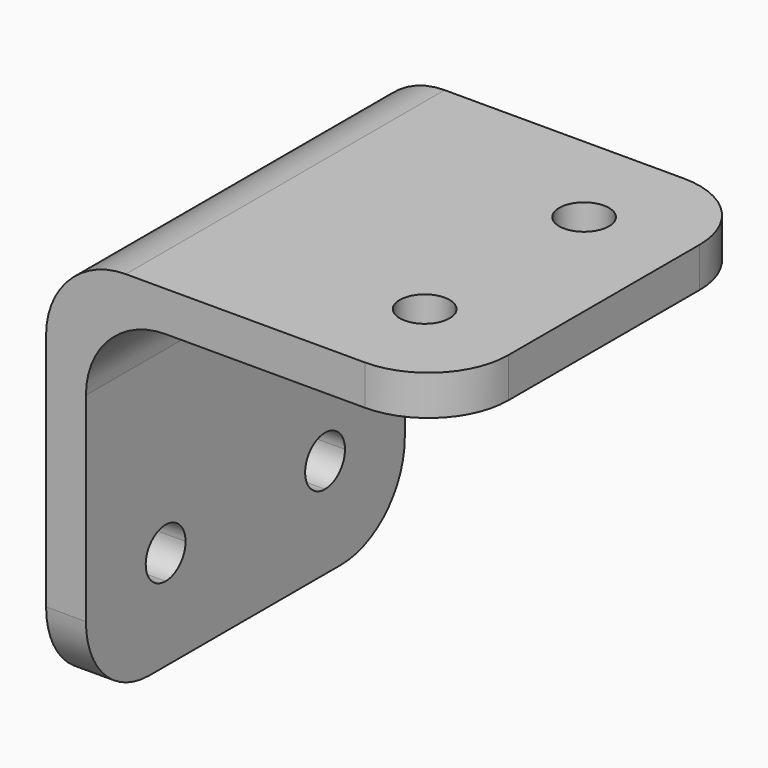
from build123d import *

# Parameters (mm, degrees)
F3_DEPTH = 12.7
F1_R     = 1.5875
F4_DEPTH = 39.37
F5_DEPTH = 8.382
F6_R     = 5.08
F7_R     = 5.08
F8_R     = 5.08


with BuildPart() as f3:
    # F0 (on Front) → F3 (new body, symmetric)
    with BuildSketch(Plane.XZ):
        Polygon((0, 25.4), (0, 0), (2.54, 0), (2.54, 22.86), (25.4, 22.86), (25.4, 25.4), align=None)
    extrude(amount=F3_DEPTH, both=True)

    # F1 (on Top) → F4 (cut)
    with BuildSketch(Plane.XY):
        with Locations((19.05, 6.35)):
            Circle(F1_R)
        with Locations((19.05, -6.35)):
            Circle(F1_R)
    extrude(amount=F4_DEPTH, mode=Mode.SUBTRACT)

    # F2 (on Right) → F5 (cut)
    with BuildSketch(Plane.YZ):
        with BuildLine():
            ThreePointArc((7.9375, 6.35), (5.227468, 7.472532), (6.35, 4.7625))
            ThreePointArc((6.35, 4.7625), (7.472532, 5.227468), (7.9375, 6.35))
        make_face()
        with BuildLine():
            ThreePointArc((-4.7625, 6.35), (-7.472532, 7.472532), (-6.35, 4.7625))
            ThreePointArc((-6.35, 4.7625), (-5.227468, 5.227468), (-4.7625, 6.35))
        make_face()
    extrude(amount=F5_DEPTH, mode=Mode.SUBTRACT)

    # F6
    f6_edges = [f3.edges().sort_by_distance(p)[0] for p in [
        (25.4, -12.7, 24.13),
        (25.4, 12.7, 24.13),
        (1.27, -12.7, 0),
        (1.27, 12.7, 0),
    ]]
    fillet(f6_edges, radius=F6_R)

    # F7
    f7_edges = [f3.edges().sort_by_distance(p)[0] for p in [
        (0, 0, 25.4),
    ]]
    fillet(f7_edges, radius=F7_R)

    # F8
    f8_edges = [f3.edges().sort_by_distance(p)[0] for p in [
        (2.54, 0, 22.86),
    ]]
    fillet(f8_edges, radius=F8_R)


solid = f3.part
